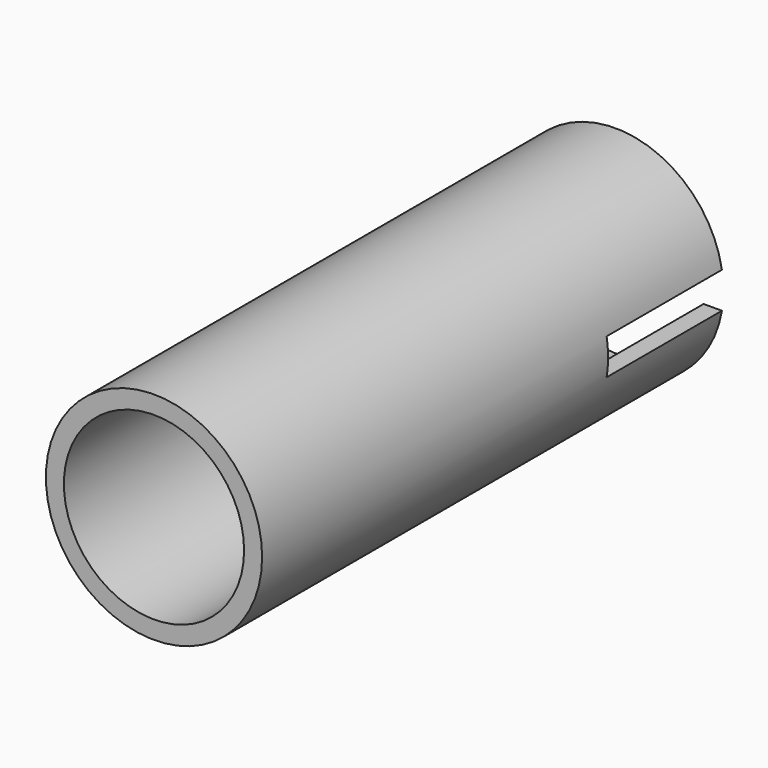
from build123d import *

# Parameters (mm, degrees)
F0_R     = 38.1
F1_DEPTH = 203.2
F2_R     = 31.75
F3_DEPTH = 228.6
F4_W     = 76.2
F4_H     = 12.7
F5_DEPTH = 50.8
F6_R     = 2.54
F7_DEPTH = 25.4


with BuildPart() as f1:
    # F0 (on Front) → F1 (new body)
    with BuildSketch(Plane.XZ):
        Circle(F0_R)
    extrude(amount=F1_DEPTH)

    # F2 (on face) → F3 (cut)
    with BuildSketch(Plane.XZ.offset(203.2)):
        Circle(F2_R)
    extrude(amount=-F3_DEPTH, mode=Mode.SUBTRACT)

    # F4 (on Front) → F5 (cut)
    with BuildSketch(Plane.XZ):
        Rectangle(F4_W, F4_H)
    extrude(amount=F5_DEPTH, mode=Mode.SUBTRACT)

    # F6 (on face) → F7 (cut)
    with BuildSketch(Plane(origin=(0, -50.8, 0), x_dir=(-1, 0, 0), z_dir=(0, 1, 0))):
        with Locations((-34.337813, 0)):
            Circle(F6_R)
        with Locations((34.337813, 0)):
            Circle(F6_R)
    extrude(amount=-F7_DEPTH, mode=Mode.SUBTRACT)


solid = f1.part
